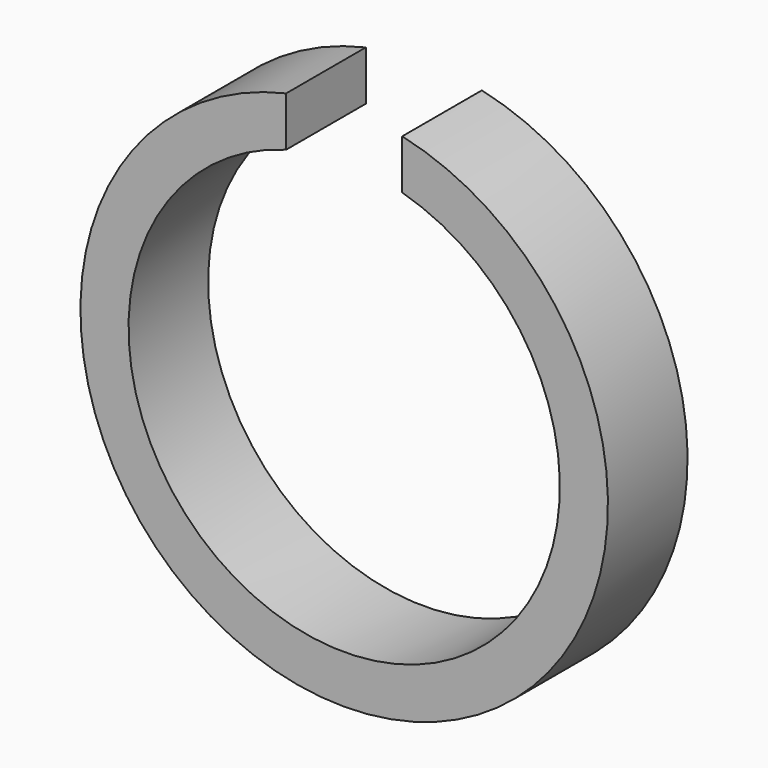
from build123d import *

# Parameters (mm, degrees)
F1_R     = 7.95
F1_R_2   = 6.5
F2_DEPTH = 3
F3_W     = 3.5
F3_H     = 3
F4_DEPTH = 7.951


with BuildPart() as f2:
    # F1 (on Front) → F2 (new body)
    with BuildSketch(Plane.XZ):
        Circle(F1_R)
        Circle(F1_R_2, mode=Mode.SUBTRACT)
    extrude(amount=F2_DEPTH)

    # F3 (on Top) → F4 (cut, through all)
    with BuildSketch(Plane.XY):
        with Locations((0, -1.5)):
            Rectangle(F3_W, F3_H)
    extrude(amount=F4_DEPTH, mode=Mode.SUBTRACT)


solid = f2.part
